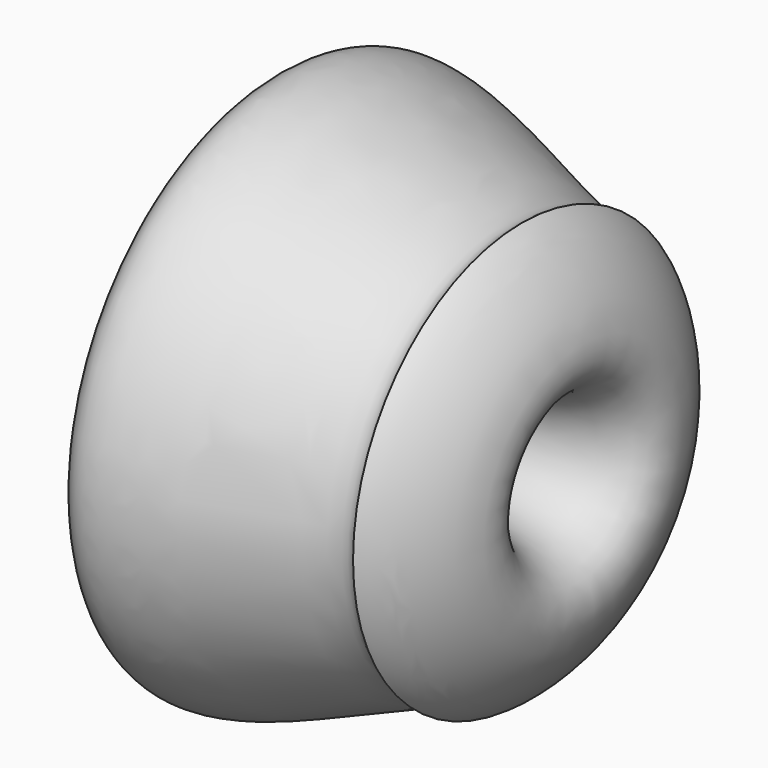
from build123d import *


with BuildPart() as f1:
    # F0 (on Front) → F1 (revolve)
    with BuildSketch(Plane.XZ):
        with BuildLine():
            add(Edge.make_bspline(
                [(0, 26.8585676326), (5.6491121233, 43.3427862818), (-13.876387172, 104.327918766), (67.2982558608, 52.6668597013), (73.9955588438, 59.1747460251)],
                knots=[0, 0, 0, 0, 0.4627741907, 1, 1, 1, 1], degree=3))
            add(Edge.make_bspline(
                [(0, 26.8585676326), (34.6630700457, 8.8420869131), (116.2102496375, 9.9913531162), (81.229172647, 55.4530471563), (73.9955588438, 59.1747460251)],
                knots=[0, 0, 0, 0, 0.612226801, 1, 1, 1, 1], degree=3))
        make_face()
    revolve(axis=Axis((35.1942740381, 0, 0), (1, 0, 0)))


solid = f1.part
